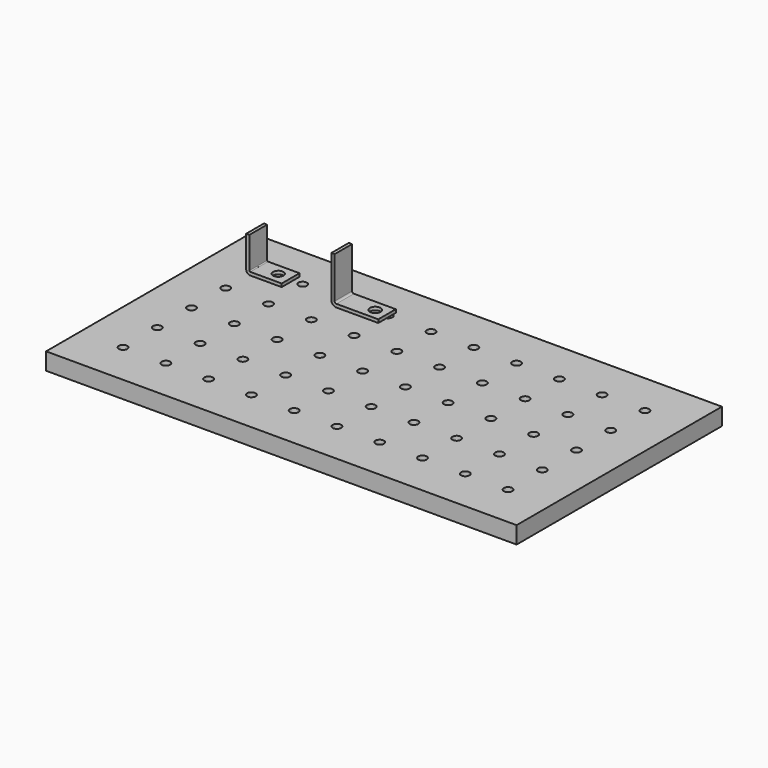
from build123d import *

# Parameters (mm, degrees)
F0_W     = 275
F0_H     = 150
F0_R     = 2.5
F1_DEPTH = 10
F2_W     = 1.88
F2_H     = 18.37493
F2_W_2   = 18.37493
F2_H_2   = 1.88
F3_DEPTH = 13
F4_W     = 1.9
F4_H     = 24.154444
F4_W_2   = 24.484444
F4_H_2   = 1.9
F5_DEPTH = 12.8
F6_R     = 3.15
F7_DEPTH = 1.9
F8_R     = 3.035
F9_DEPTH = 1.88


with BuildPart() as f1:
    # F0 (on Top) → F1 (new body)
    with BuildSketch(Plane.XY):
        Rectangle(F0_W, F0_H)
        with Locations((-112.5, -50)):
            Circle(F0_R, mode=Mode.SUBTRACT)
        with Locations((-87.5, -50)):
            Circle(F0_R, mode=Mode.SUBTRACT)
        with Locations((-62.5, -50)):
            Circle(F0_R, mode=Mode.SUBTRACT)
        with Locations((-37.5, -50)):
            Circle(F0_R, mode=Mode.SUBTRACT)
        with Locations((-12.5, -50)):
            Circle(F0_R, mode=Mode.SUBTRACT)
        with Locations((-112.5, -25)):
            Circle(F0_R, mode=Mode.SUBTRACT)
        with Locations((-87.5, -25)):
            Circle(F0_R, mode=Mode.SUBTRACT)
        with Locations((-62.5, -25)):
            Circle(F0_R, mode=Mode.SUBTRACT)
        with Locations((-37.5, -25)):
            Circle(F0_R, mode=Mode.SUBTRACT)
        with Locations((-12.5, -25)):
            Circle(F0_R, mode=Mode.SUBTRACT)
        with Locations((12.5, -50)):
            Circle(F0_R, mode=Mode.SUBTRACT)
        with Locations((37.5, -50)):
            Circle(F0_R, mode=Mode.SUBTRACT)
        with Locations((62.5, -50)):
            Circle(F0_R, mode=Mode.SUBTRACT)
        with Locations((87.5, -50)):
            Circle(F0_R, mode=Mode.SUBTRACT)
        with Locations((112.5, -50)):
            Circle(F0_R, mode=Mode.SUBTRACT)
        with Locations((12.5, -25)):
            Circle(F0_R, mode=Mode.SUBTRACT)
        with Locations((37.5, -25)):
            Circle(F0_R, mode=Mode.SUBTRACT)
        with Locations((62.5, -25)):
            Circle(F0_R, mode=Mode.SUBTRACT)
        with Locations((87.5, -25)):
            Circle(F0_R, mode=Mode.SUBTRACT)
        with Locations((112.5, -25)):
            Circle(F0_R, mode=Mode.SUBTRACT)
        with Locations((-112.5, 0)):
            Circle(F0_R, mode=Mode.SUBTRACT)
        with Locations((-87.5, 0)):
            Circle(F0_R, mode=Mode.SUBTRACT)
        with Locations((-112.5, 25)):
            Circle(F0_R, mode=Mode.SUBTRACT)
        with Locations((-87.5, 25)):
            Circle(F0_R, mode=Mode.SUBTRACT)
        with Locations((-62.5, 0)):
            Circle(F0_R, mode=Mode.SUBTRACT)
        with Locations((-37.5, 0)):
            Circle(F0_R, mode=Mode.SUBTRACT)
        with Locations((-12.5, 0)):
            Circle(F0_R, mode=Mode.SUBTRACT)
        with Locations((-62.5, 25)):
            Circle(F0_R, mode=Mode.SUBTRACT)
        with Locations((-37.5, 25)):
            Circle(F0_R, mode=Mode.SUBTRACT)
        with Locations((-12.5, 25)):
            Circle(F0_R, mode=Mode.SUBTRACT)
        with Locations((-112.5, 50)):
            Circle(F0_R, mode=Mode.SUBTRACT)
        with Locations((-87.5, 50)):
            Circle(F0_R, mode=Mode.SUBTRACT)
        with Locations((-62.5, 50)):
            Circle(F0_R, mode=Mode.SUBTRACT)
        with Locations((-37.5, 50)):
            Circle(F0_R, mode=Mode.SUBTRACT)
        with Locations((-12.5, 50)):
            Circle(F0_R, mode=Mode.SUBTRACT)
        with Locations((12.5, 0)):
            Circle(F0_R, mode=Mode.SUBTRACT)
        with Locations((37.5, 0)):
            Circle(F0_R, mode=Mode.SUBTRACT)
        with Locations((62.5, 0)):
            Circle(F0_R, mode=Mode.SUBTRACT)
        with Locations((12.5, 25)):
            Circle(F0_R, mode=Mode.SUBTRACT)
        with Locations((37.5, 25)):
            Circle(F0_R, mode=Mode.SUBTRACT)
        with Locations((62.5, 25)):
            Circle(F0_R, mode=Mode.SUBTRACT)
        with Locations((87.5, 0)):
            Circle(F0_R, mode=Mode.SUBTRACT)
        with Locations((112.5, 0)):
            Circle(F0_R, mode=Mode.SUBTRACT)
        with Locations((87.5, 25)):
            Circle(F0_R, mode=Mode.SUBTRACT)
        with Locations((112.5, 25)):
            Circle(F0_R, mode=Mode.SUBTRACT)
        with Locations((12.5, 50)):
            Circle(F0_R, mode=Mode.SUBTRACT)
        with Locations((37.5, 50)):
            Circle(F0_R, mode=Mode.SUBTRACT)
        with Locations((62.5, 50)):
            Circle(F0_R, mode=Mode.SUBTRACT)
        with Locations((87.5, 50)):
            Circle(F0_R, mode=Mode.SUBTRACT)
        with Locations((112.5, 50)):
            Circle(F0_R, mode=Mode.SUBTRACT)
    extrude(amount=F1_DEPTH)


with BuildPart() as f3:
    # F2 (on Front) → F3 (new body)
    with BuildSketch(Plane.XZ):
        with Locations((-69.211448, 58.048544)):
            Rectangle(F2_W, F2_H)
        with BuildLine():
            Line((-68.271448, 48.861079), (-70.151448, 48.861079))
            ThreePointArc((-70.151448, 48.861079), (-69.455806, 47.181651), (-67.776378, 46.486009))
            Line((-67.776378, 46.486009), (-67.776378, 48.366009))
            ThreePointArc((-67.776378, 48.366009), (-68.126446, 48.511012), (-68.271448, 48.861079))
        make_face()
        with Locations((-58.588913, 47.426009)):
            Rectangle(F2_W_2, F2_H_2)
    extrude(amount=F3_DEPTH)

    # F8 (on face) → F9 (cut, through all)
    with BuildSketch(Plane.XY.offset(48.366009)):
        with Locations((-56.601448, -6.5)):
            Circle(F8_R)
    extrude(amount=-F9_DEPTH, mode=Mode.SUBTRACT)


with BuildPart() as f5:
    # F4 (on Front) → F5 (new body)
    with BuildSketch(Plane.XZ):
        with Locations((-19.601544, 61.281377)):
            Rectangle(F4_W, F4_H)
        with BuildLine():
            Line((-18.651544, 49.204155), (-20.551544, 49.204155))
            ThreePointArc((-20.551544, 49.204155), (-19.685882, 47.114261), (-17.595988, 46.248599))
            Line((-17.595988, 46.248599), (-17.595988, 48.148599))
            ThreePointArc((-17.595988, 48.148599), (-18.342379, 48.457764), (-18.651544, 49.204155))
        make_face()
        with Locations((-5.353766, 47.198599)):
            Rectangle(F4_W_2, F4_H_2)
    extrude(amount=F5_DEPTH)

    # F6 (on face) → F7 (cut, through all)
    with BuildSketch(Plane.XY.offset(48.148599)):
        with Locations((-0.011544, -6.4)):
            Circle(F6_R)
    extrude(amount=-F7_DEPTH, mode=Mode.SUBTRACT)


solid = Compound([f1.part, f3.part, f5.part])
